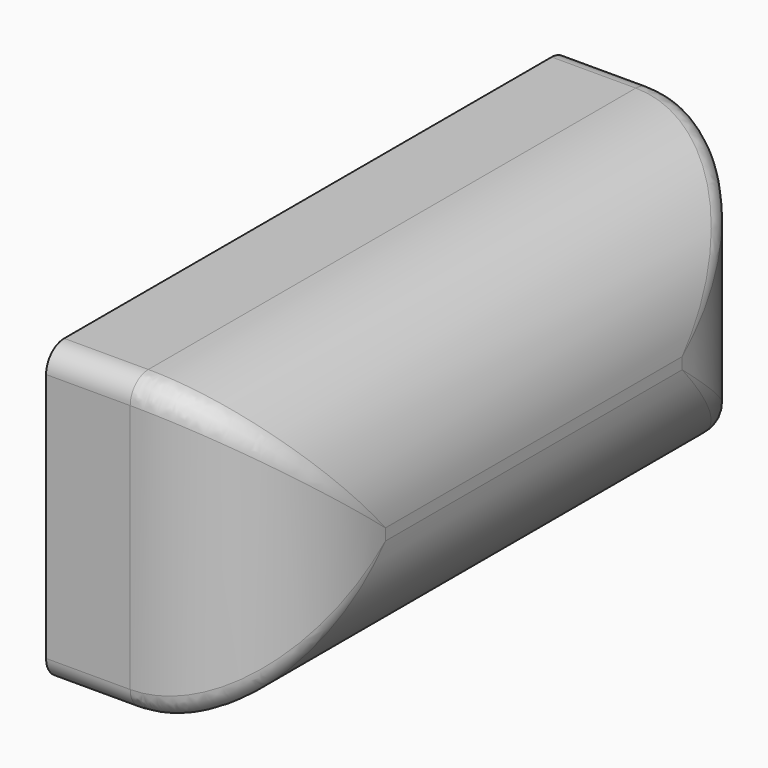
from build123d import *

# Parameters (mm, degrees)
F0_W     = 57.9444081523
F0_H     = 26.1267647147
F1_DEPTH = 20
F2_R     = 12.55
F3_R     = 2


with BuildPart() as f1:
    # F0 (on Right) → F1 (new body)
    with BuildSketch(Plane.YZ):
        with Locations((-23.52779801, 31.6725373268)):
            Rectangle(F0_W, F0_H)
    extrude(amount=F1_DEPTH)

    # F2
    f2_edges = [f1.edges().sort_by_distance(p)[0] for p in [
        (20, -23.527798, 18.609155),
        (20, 5.444406, 31.672537),
        (20, -23.527798, 44.73592),
        (20, -52.500002, 31.672537),
    ]]
    fillet(f2_edges, radius=F2_R)

    # F3
    f3_edges = [f1.edges().sort_by_distance(p)[0] for p in [
        (20, -23.527798, 31.159155),
        (17.029365, -48.057916, 23.051241),
        (17.029365, -48.057916, 40.293833),
        (17.029365, 1.00232, 23.051241),
        (17.029365, 1.00232, 40.293833),
    ]]
    fillet(f3_edges, radius=F3_R)


solid = f1.part
